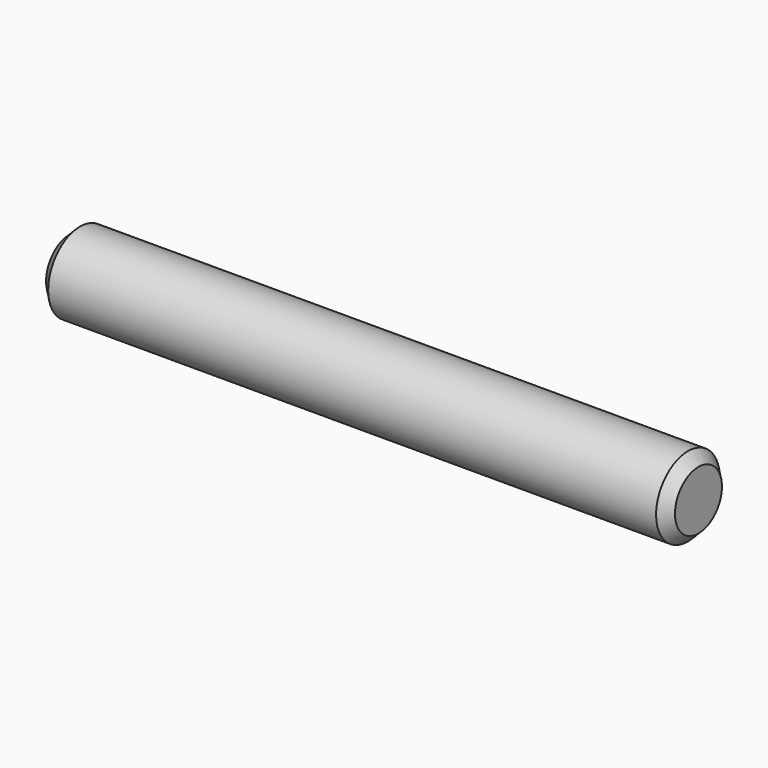
from build123d import *

# Parameters (mm, degrees)
F0_W    = 76.2
F0_H    = 4.826
F2_SIZE = 1.27
F3_SIZE = 1.27


with BuildPart() as f1:
    # F0 (on Front) → F1 (revolve)
    with BuildSketch(Plane.XZ):
        with Locations((38.1, -2.413)):
            Rectangle(F0_W, F0_H)
    revolve(axis=Axis((38.1, 0, -4.826), (1, 0, 0)))

    # F2
    f2_edges = [f1.edges().sort_by_distance(p)[0] for p in [
        (0, 0, -9.652),
    ]]
    chamfer(f2_edges, length=F2_SIZE)

    # F3
    f3_edges = [f1.edges().sort_by_distance(p)[0] for p in [
        (76.2, 0, -9.652),
    ]]
    chamfer(f3_edges, length=F3_SIZE)


solid = f1.part
